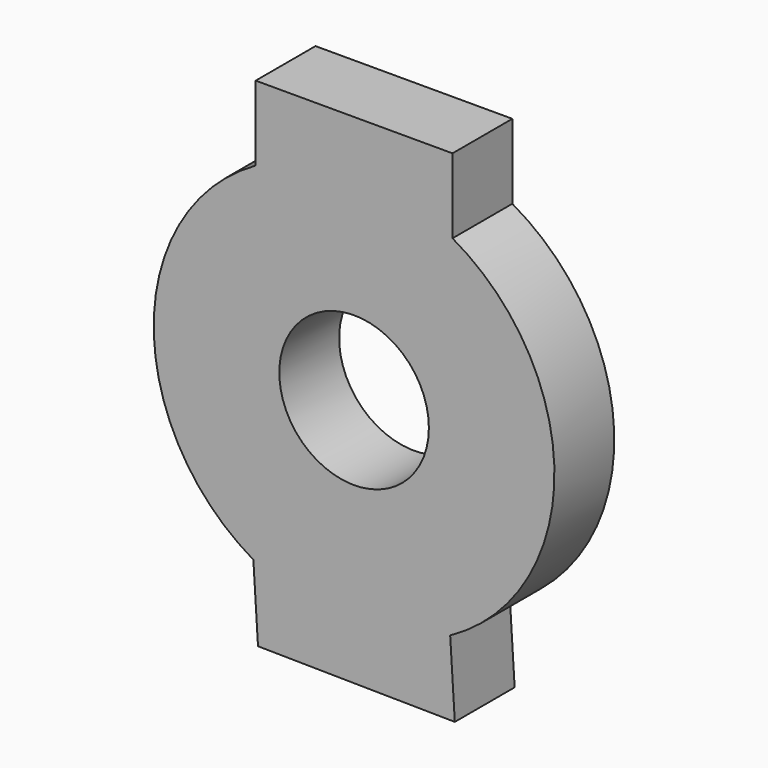
from build123d import *

# Parameters (mm, degrees)
F0_R     = 4.826
F1_DEPTH = 4.826


with BuildPart() as f1:
    # F0 (on Front) → F1 (new body)
    with BuildSketch(Plane.XZ):
        with BuildLine():
            Line((-6.199785, -15.992633), (6.499093, -16.161406))
            Line((6.499093, -16.161406), (6.199785, -11.344696))
            ThreePointArc((6.199785, -11.344696), (12.927958, -0.085905), (6.35, 11.261304))
            Line((6.35, 11.261304), (6.35, 16.087304))
            Line((6.35, 16.087304), (-6.35, 16.087304))
            Line((-6.35, 16.087304), (-6.35, 11.261304))
            ThreePointArc((-6.35, 11.261304), (-12.927958, 0.085905), (-6.499093, -11.175923))
            Line((-6.499093, -11.175923), (-6.199785, -15.992633))
        make_face()
        Circle(F0_R, mode=Mode.SUBTRACT)
    extrude(amount=F1_DEPTH)


solid = f1.part
